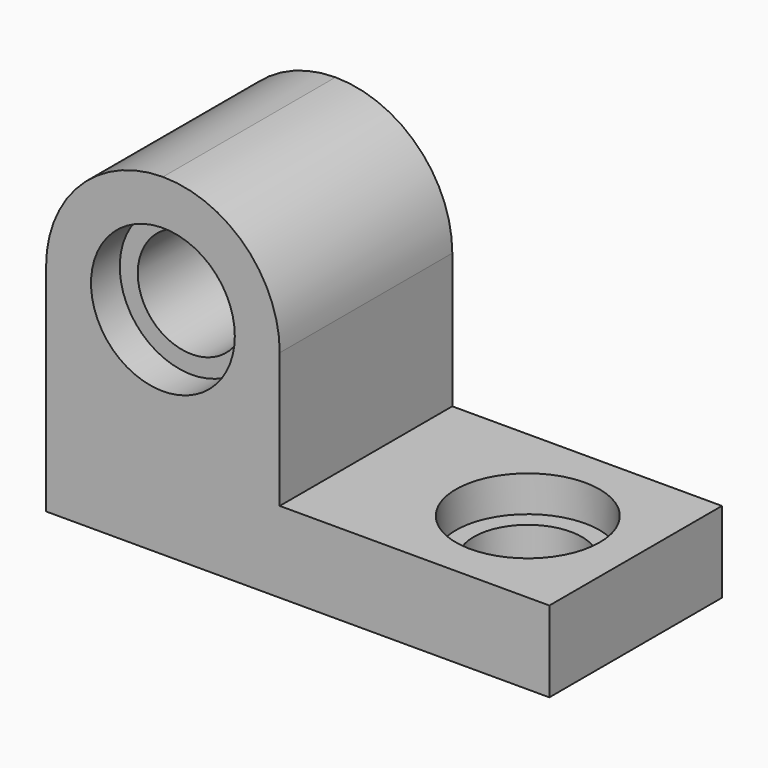
from build123d import *

# Parameters (mm, degrees)
F1_DEPTH       = 76.2
F3_D           = 38.1
F3_CBORE_D     = 50.8
F3_CBORE_DEPTH = 12.7
F5_D           = 38.1
F5_CBORE_D     = 50.8
F5_CBORE_DEPTH = 12.7


with BuildPart() as f1:
    # F0 (on Front) → F1 (new body)
    with BuildSketch(Plane.XZ):
        with BuildLine():
            Line((-58.056168, 15.794694), (-58.056168, -60.405306))
            Line((-58.056168, -60.405306), (119.743832, -60.405306))
            Line((119.743832, -60.405306), (119.743832, -31.830306))
            Line((119.743832, -31.830306), (24.493832, -31.830306))
            Line((24.493832, -31.830306), (24.493832, 15.794694))
            ThreePointArc((24.493832, 15.794694), (12.404664, 44.980527), (-16.781168, 57.069694))
            ThreePointArc((-16.781168, 57.069694), (-45.967001, 44.980527), (-58.056168, 15.794694))
        make_face()
    extrude(amount=F1_DEPTH)

    # F3 (through all)
    with Locations(Plane.XZ.offset(76.2)):
        with Locations((-16.781168, 15.794694)):
            CounterBoreHole(F3_D / 2, F3_CBORE_D / 2, F3_CBORE_DEPTH)

    # F5 (through all)
    with Locations(Plane.XY.offset(-31.830306)):
        with Locations((81.643832, -38.1)):
            CounterBoreHole(F5_D / 2, F5_CBORE_D / 2, F5_CBORE_DEPTH)


solid = f1.part
